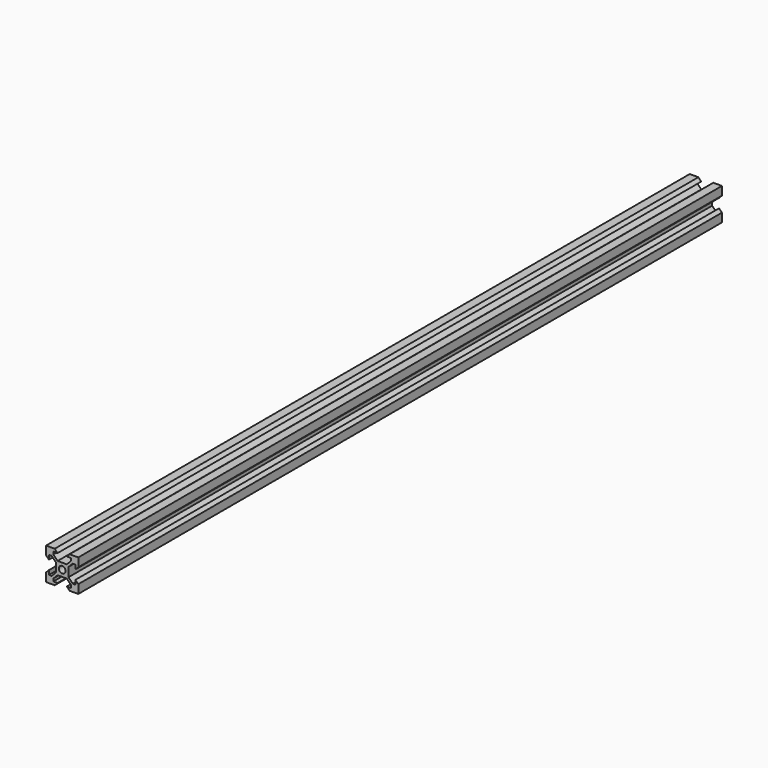
from build123d import *

# Parameters (mm, degrees)
F0_R     = 2.1
F1_DEPTH = 250


with BuildPart() as f1:
    # F0 (on Front) → F1 (new body, symmetric)
    with BuildSketch(Plane.XZ):
        Polygon((-6.56, 5.49934), (-3.90066, 2.84), (-3.90066, 3.90066), (-2.84, 3.90066), (-5.49934, 6.56), (-5.49934, 8.2), (-2.84, 8.2), (-4.64, 10), (-10, 10), (-10, 4.64), (-8.2, 2.84), (-8.2, 5.49934), align=None)
        Polygon((-3.90066, -2.84), (-3.90066, -3.90066), (-2.84, -3.90066), (2.84, -3.90066), (3.90066, -3.90066), (3.90066, -2.84), (3.90066, 2.84), (3.90066, 3.90066), (2.84, 3.90066), (-2.84, 3.90066), (-3.90066, 3.90066), (-3.90066, 2.84), align=None)
        Circle(F0_R, mode=Mode.SUBTRACT)
        Polygon((-2.84, -3.90066), (-3.90066, -3.90066), (-3.90066, -2.84), (-6.56, -5.49934), (-8.2, -5.49934), (-8.2, -2.84), (-10, -4.64), (-10, -10), (-4.64, -10), (-2.84, -8.2), (-5.49934, -8.2), (-5.49934, -6.56), align=None)
        Polygon((3.90066, -3.90066), (2.84, -3.90066), (5.49934, -6.56), (5.49934, -8.2), (2.84, -8.2), (4.64, -10), (10, -10), (10, -4.64), (8.2, -2.84), (8.2, -5.49934), (6.56, -5.49934), (3.90066, -2.84), align=None)
        Polygon((3.90066, 3.90066), (3.90066, 2.84), (6.56, 5.49934), (8.2, 5.49934), (8.2, 2.84), (10, 4.64), (10, 10), (4.64, 10), (2.84, 8.2), (5.49934, 8.2), (5.49934, 6.56), (2.84, 3.90066), align=None)
    extrude(amount=F1_DEPTH, both=True)


solid = f1.part
